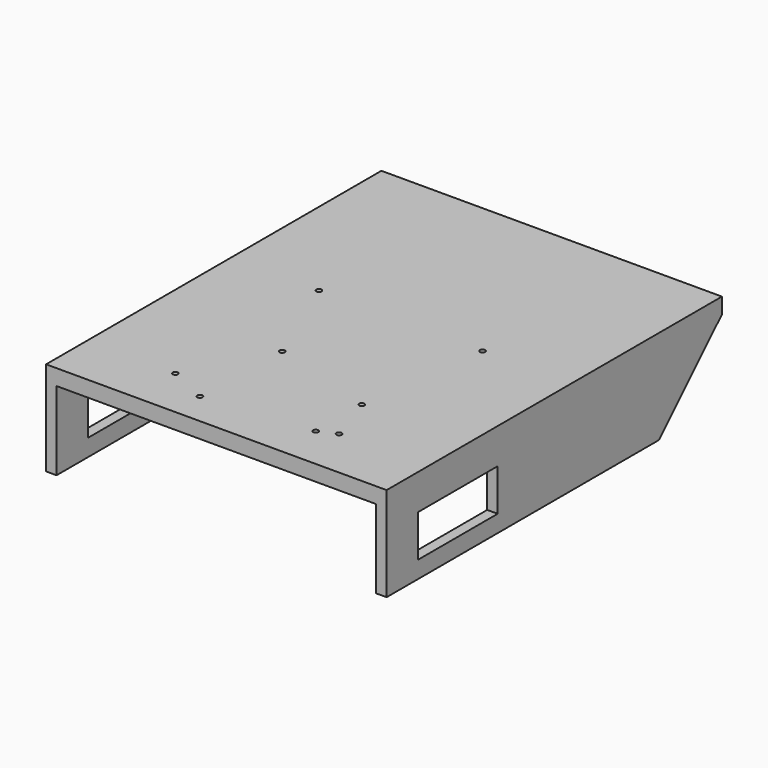
from build123d import *

# Parameters (mm, degrees)
F0_W     = 165.1
F0_H     = 203.2
F0_R     = 1.27
F1_DEPTH = 7.62
F2_W     = 165.1
F2_H     = 38.1
F2_W_2   = 48.26
F2_H_2   = 20.32
F3_DEPTH = 5.08
F6_DEPTH = 5.08
F7_W     = 88.9
F7_H     = 25.4
F7_R     = 6.35
F8_DEPTH = 5.08


with BuildPart() as f1:
    # F0 (on Top) → F1 (new body)
    with BuildSketch(Plane.XY):
        Rectangle(F0_W, F0_H)
        with Locations((-39.6875, -76.835)):
            Circle(F0_R, mode=Mode.SUBTRACT)
        with Locations((-20.6375, -85.725)):
            Circle(F0_R, mode=Mode.SUBTRACT)
        with Locations((-19.3675, -37.465)):
            Circle(F0_R, mode=Mode.SUBTRACT)
        with Locations((31.4325, -80.645)):
            Circle(F0_R, mode=Mode.SUBTRACT)
        with Locations((39.6875, -76.835)):
            Circle(F0_R, mode=Mode.SUBTRACT)
        with Locations((31.4325, -52.705)):
            Circle(F0_R, mode=Mode.SUBTRACT)
        with Locations((-39.6875, 10.16)):
            Circle(F0_R, mode=Mode.SUBTRACT)
        with Locations((39.6875, 10.16)):
            Circle(F0_R, mode=Mode.SUBTRACT)
    extrude(amount=F1_DEPTH)

    # F4: F3 across plane


with BuildPart() as f3:
    # F2 (on face) → F3 (new body)
    with BuildSketch(Plane.YZ.offset(82.55)):
        with Locations((-19.05, -19.05)):
            Rectangle(F2_W, F2_H)
        with Locations((-58.42, -19.685)):
            Rectangle(F2_W_2, F2_H_2, mode=Mode.SUBTRACT)
        Polygon((101.6, 0), (63.5, 0), (63.5, -38.1), align=None)
    extrude(amount=-F3_DEPTH)


with BuildPart() as f1_1:
    add(f1.part)
    add(f3.part.mirror(Plane.YZ))


    add(f3.part)  # F6 merges F3
    # F5 (on face) → F6 (join)
    with BuildSketch(Plane(origin=(0, 101.6, 0), x_dir=(-1, 0, 0), z_dir=(0, 1, 0))):
        Polygon((77.47, 0), (-82.55, 0), (-44.45, -38.1), (44.45, -38.1), (82.55, 0), align=None)
    extrude(amount=-F6_DEPTH)

    # F7 (on face) → F8 (join)
    with BuildSketch(Plane(origin=(0, 0, -38.1), x_dir=(1, 0, 0), z_dir=(0, 0, -1))):
        with Locations((0, -83.82)):
            Rectangle(F7_W, F7_H)
        with Locations((0, -83.82)):
            Circle(F7_R, mode=Mode.SUBTRACT)
    extrude(amount=-F8_DEPTH)


solid = f1_1.part
